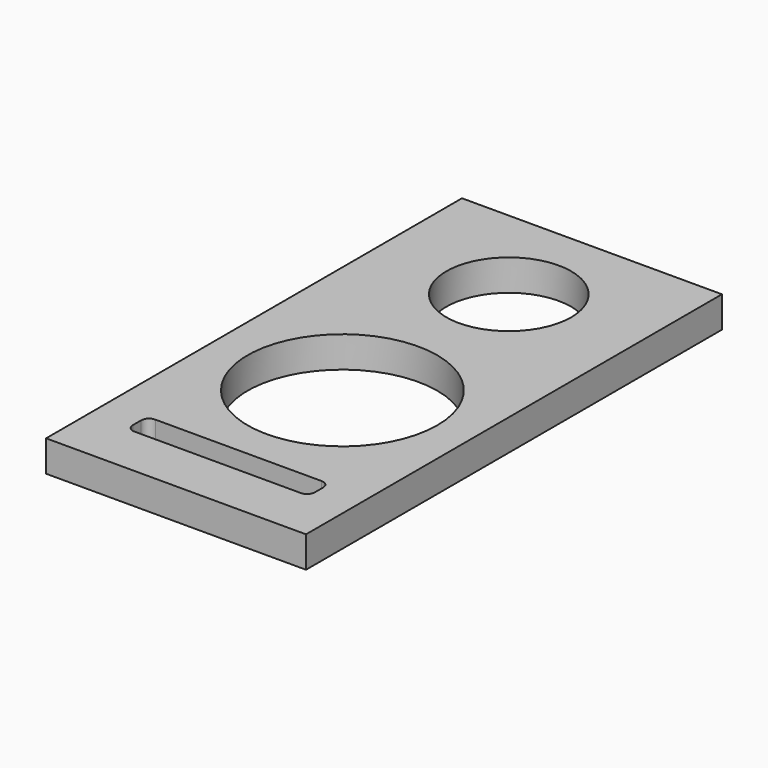
from build123d import *

# Parameters (mm, degrees)
SKETCH_W   = 100
SKETCH_H   = 200
SKETCH_R   = 36.5
SKETCH_R_2 = 24
PAD_DEPTH  = 12


with BuildPart() as part:
    # Sketch → Pad (new body)
    with BuildSketch(Plane.XY):
        with Locations((50, 100)):
            Rectangle(SKETCH_W, SKETCH_H)
        with Locations((50, 80)):
            Circle(SKETCH_R, mode=Mode.SUBTRACT)
        with Locations((50, 160)):
            Circle(SKETCH_R_2, mode=Mode.SUBTRACT)
        with BuildLine():
            Line((18, 20), (82, 20))
            ThreePointArc((82, 20), (84.12132, 20.87868), (85, 23))
            Line((85, 23), (85, 27))
            ThreePointArc((85, 27), (84.12132, 29.12132), (82, 30))
            Line((82, 30), (18, 30))
            ThreePointArc((18, 30), (15.87868, 29.12132), (15, 27))
            Line((15, 27), (15, 23))
            ThreePointArc((15, 23), (15.87868, 20.87868), (18, 20))
        make_face(mode=Mode.SUBTRACT)
    extrude(amount=PAD_DEPTH)


solid = part.part
